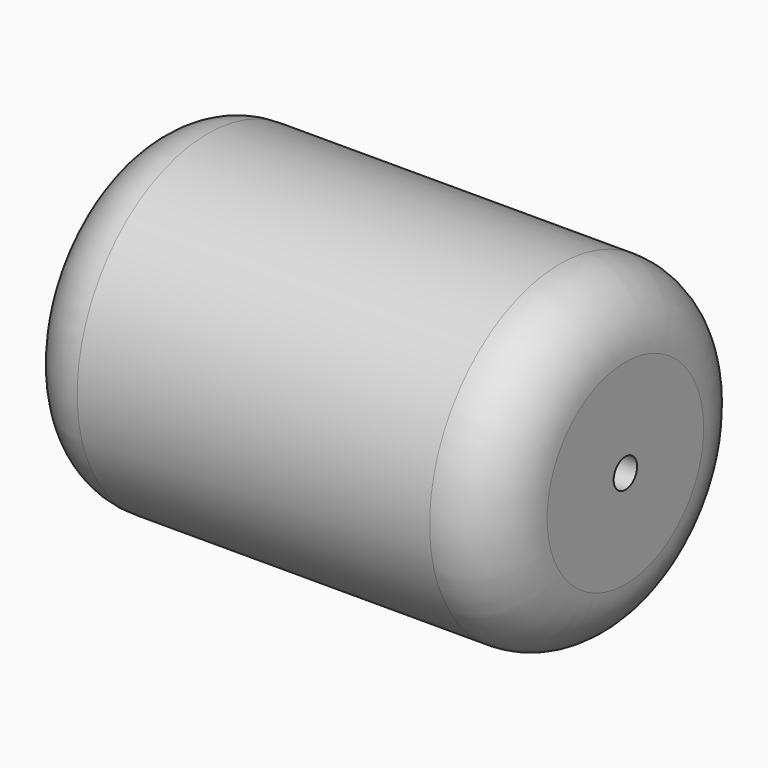
from build123d import *

# Parameters (mm, degrees)
SKETCH_R   = 6.35
SKETCH_R_2 = 0.5715
PAD_DEPTH  = 18.796
FILLET_R   = 2.54


with BuildPart() as part:
    # Sketch → Pad (new body)
    with BuildSketch(Plane.YZ):
        Circle(SKETCH_R)
        Circle(SKETCH_R_2, mode=Mode.SUBTRACT)
    extrude(amount=PAD_DEPTH)

    # Fillet
    fillet_edges = [part.edges().sort_by_distance(p)[0] for p in [
        (18.796, -6.35, 0),
        (0, -6.35, 0),
    ]]
    fillet(fillet_edges, radius=FILLET_R)


solid = part.part
